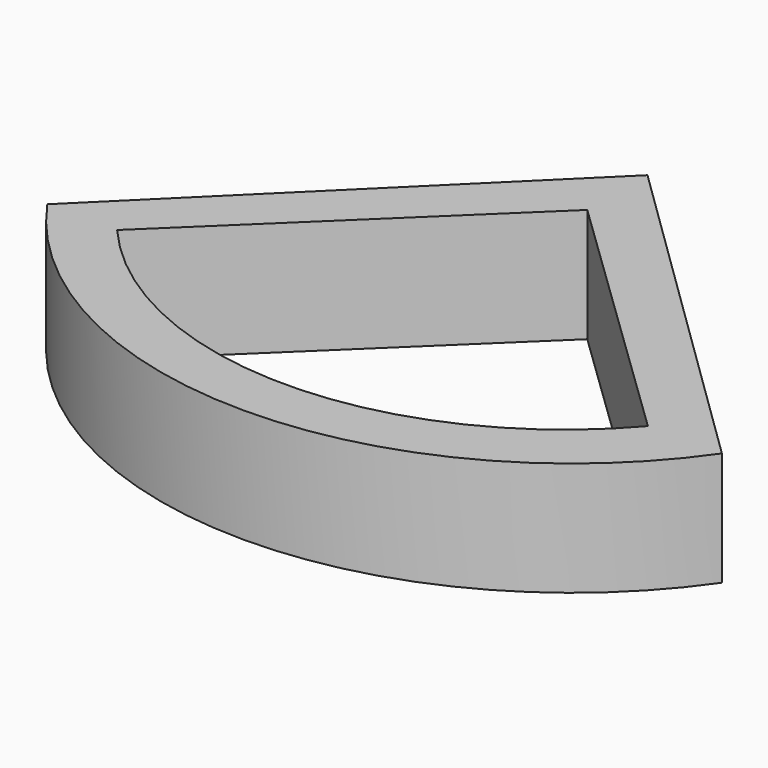
from build123d import *

# Parameters (mm, degrees)
F1_DEPTH = 25.4
F3_DEPTH = 25.4
F5_DEPTH = 25.4


with BuildPart() as f1:
    # F0 (on Top) → F1 (new body)
    with BuildSketch(Plane.XY):
        with BuildLine():
            Line((75.73466, 0), (0, 73.902369))
            Line((0, 73.902369), (-74.818514, 0))
            ThreePointArc((-74.818514, 0), (0.458073, -39.399989), (75.73466, 0))
        make_face()
    extrude(amount=F1_DEPTH)

    # F2 (on Top) → F3 (cut)
    with BuildSketch(Plane.XY):
        with BuildLine():
            Line((63.833756, 0), (0, 62.908627))
            Line((0, 62.908627), (-62.168982, -0.174606))
            ThreePointArc((-62.168982, -0.174606), (0.876457, -31.889673), (63.833756, 0))
        make_face()
    extrude(amount=-F3_DEPTH, mode=Mode.SUBTRACT)

    # F4 (on Top) → F5 (cut)
    with BuildSketch(Plane.XY):
        with BuildLine():
            Line((59.217848, 0), (0, 57.106376))
            Line((0, 57.106376), (-59.244044, 0))
            ThreePointArc((-59.244044, 0), (-0.013098, -27.205963), (59.217848, 0))
        make_face()
    extrude(amount=F5_DEPTH, mode=Mode.SUBTRACT)


solid = f1.part
